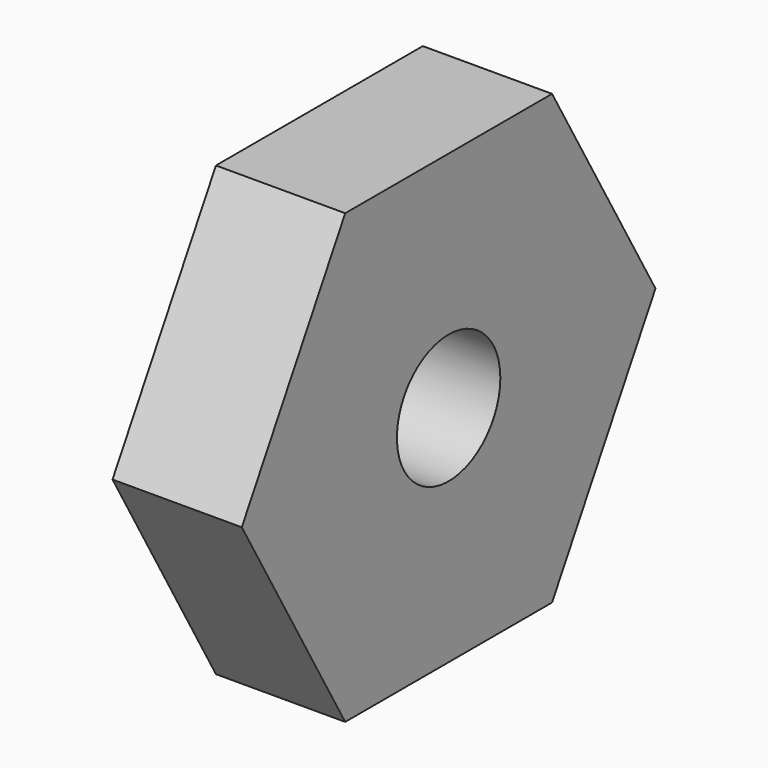
from build123d import *

# Parameters (mm, degrees)
F0_R     = 3.175
F1_DEPTH = 6.35


with BuildPart() as f1:
    # F0 (on Right) → F1 (new body)
    with BuildSketch(Plane.YZ):
        Polygon((-6.35, 10.998523), (0, 0), (12.7, 0), (19.05, 10.998523), (12.7, 21.997045), (0, 21.997045), align=None)
        with Locations((6.35, 10.998523)):
            Circle(F0_R, mode=Mode.SUBTRACT)
    extrude(amount=F1_DEPTH)


solid = f1.part
